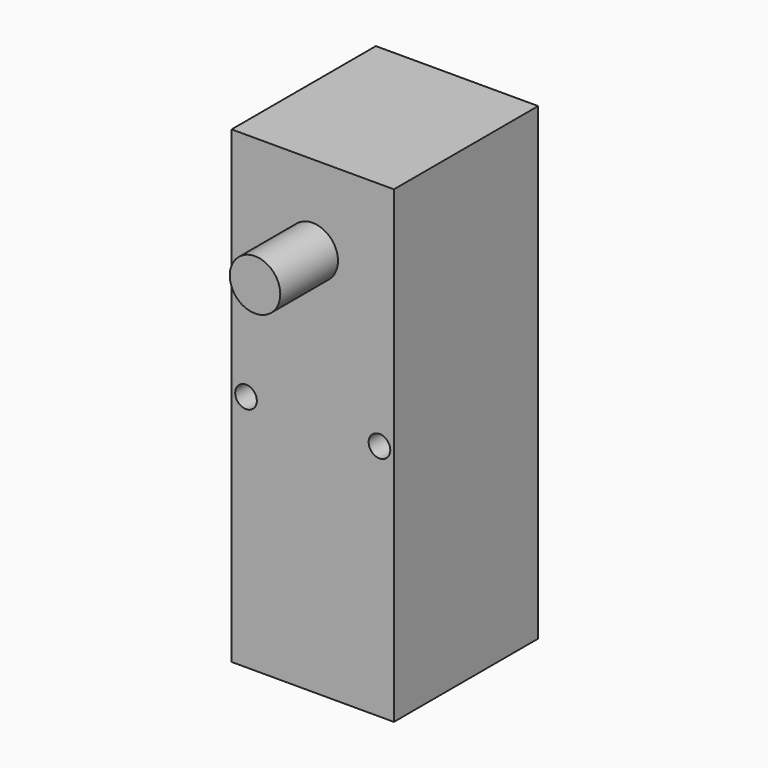
from build123d import *

# Parameters (mm, degrees)
F0_W     = 22.5
F0_H     = 65
F0_R     = 1.5
F1_DEPTH = 25
F2_R     = 3.5
F3_DEPTH = 10


with BuildPart() as f1:
    # F0 (on Front) → F1 (new body)
    with BuildSketch(Plane.XZ):
        Rectangle(F0_W, F0_H)
        with Locations((-9.25, 0.5)):
            Circle(F0_R, mode=Mode.SUBTRACT)
        with Locations((9.25, 0.5)):
            Circle(F0_R, mode=Mode.SUBTRACT)
    extrude(amount=F1_DEPTH)

    # F2 (on face) → F3 (join)
    with BuildSketch(Plane.XZ.offset(25)):
        with Locations((0, 21.25)):
            Circle(F2_R)
    extrude(amount=F3_DEPTH)


solid = f1.part
